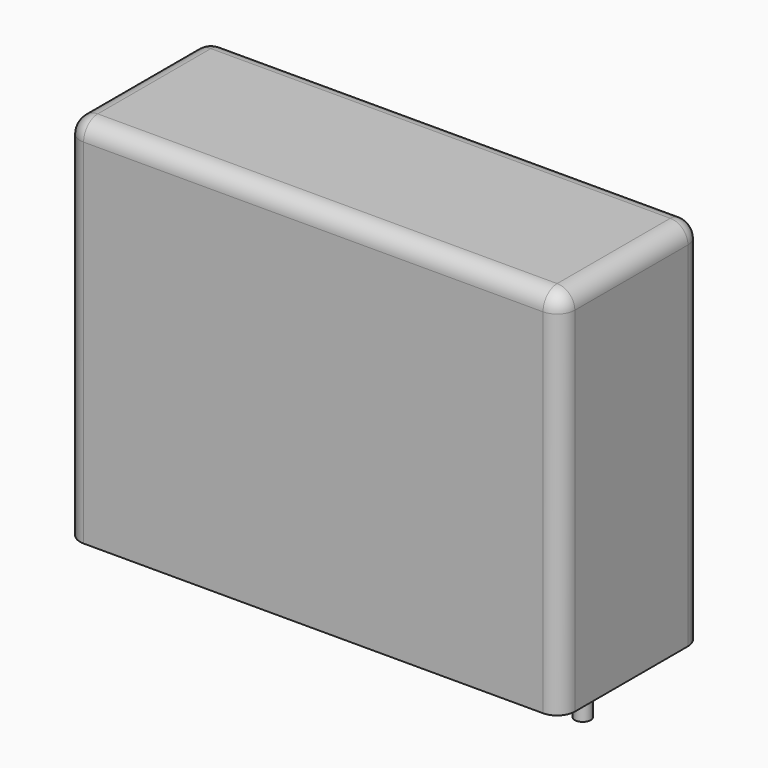
from build123d import *

# Parameters (mm, degrees)
SKETCH_W     = 28
SKETCH_H     = 10
PAD_DEPTH    = 21
FILLET_R     = 1
SKETCH001_R  = 0.45
PAD001_DEPTH = 3.2


with BuildPart() as fillet_body:
    # Sketch → Pad (new body)
    with BuildSketch(Plane.XY.offset(0.1)):
        with Locations((11.25, 0)):
            Rectangle(SKETCH_W, SKETCH_H)
    extrude(amount=PAD_DEPTH)

    # Fillet
    fillet_edges = [fillet_body.edges().sort_by_distance(p)[0] for p in [
        (-2.75, 0, 21.1),
        (-2.75, -5, 10.6),
        (11.25, -5, 21.1),
        (25.25, -5, 10.6),
        (25.25, 0, 21.1),
        (25.25, 5, 10.6),
        (11.25, 5, 21.1),
        (-2.75, 5, 10.6),
    ]]
    fillet(fillet_edges, radius=FILLET_R)


with BuildPart() as pad001:
    # Sketch001 → Pad001 (new body)
    with BuildSketch(Plane.XY.offset(0.5)):
        Circle(SKETCH001_R)
        with Locations((22.5, 0)):
            Circle(SKETCH001_R)
    extrude(amount=-PAD001_DEPTH)


solid = Compound([fillet_body.part, pad001.part])
